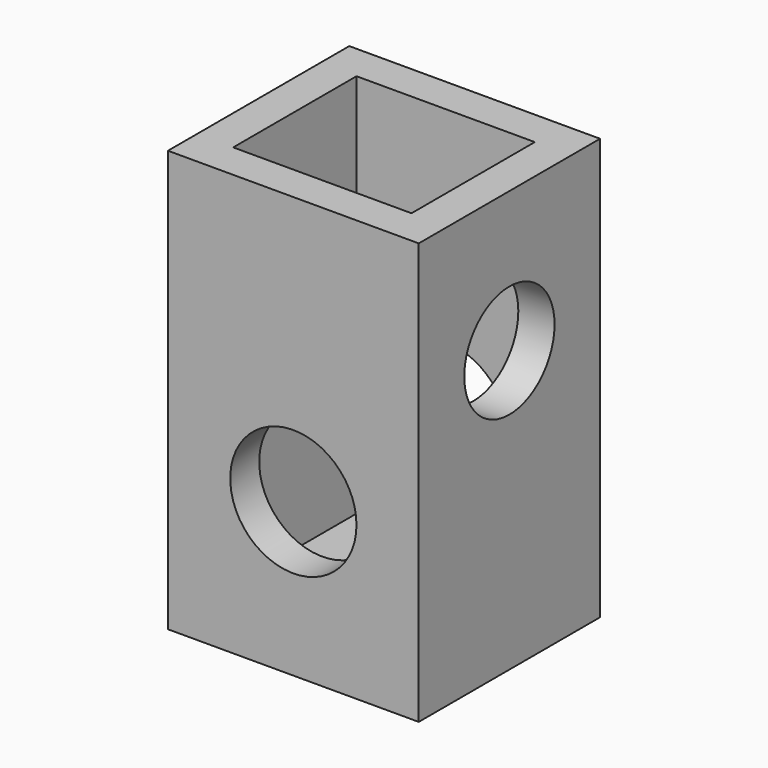
from build123d import *

# Parameters (mm, degrees)
F0_W     = 27.675628
F0_H     = 25.008082
F1_DEPTH = 46.487905
F2_T     = -4
F3_R     = 6.965851
F4_DEPTH = 39.263487
F5_R     = 6.228625
F6_DEPTH = 30


with BuildPart() as f1:
    # F0 (on Top) → F1 (new body)
    with BuildSketch(Plane.XY):
        Rectangle(F0_W, F0_H)
    extrude(amount=F1_DEPTH)

    # F2
    f2_openings = [f1.faces().sort_by_distance(p)[0] for p in [
        (0, 0, 46.487905),
    ]]
    offset(amount=F2_T, openings=f2_openings)

    # F3 (on Front) → F4 (cut, symmetric)
    with BuildSketch(Plane.XZ):
        with Locations((0, 16.891949)):
            Circle(F3_R)
    extrude(amount=F4_DEPTH, both=True, mode=Mode.SUBTRACT)

    # F5 (on face) → F6 (cut, symmetric)
    with BuildSketch(Plane.YZ.offset(13.837814)):
        with Locations((0, 30.998062)):
            Circle(F5_R)
    extrude(amount=F6_DEPTH, both=True, mode=Mode.SUBTRACT)


solid = f1.part
